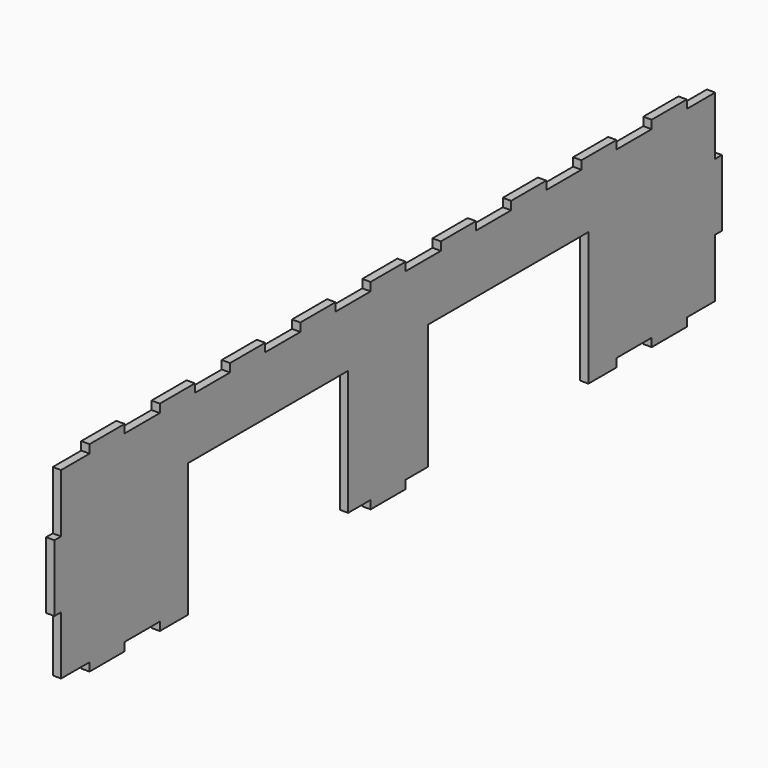
from build123d import *

# Parameters (mm, degrees)
F1_DEPTH = 3.175


with BuildPart() as f1:
    # F0 (on Right) → F1 (new body)
    with BuildSketch(Plane.YZ):
        Polygon((-155.575, 34.925), (-155.575, 12.7), (-158.75, 12.7), (-158.75, -12.7), (-155.575, -12.7), (-155.575, -34.925), (-142.039474, -34.925), (-142.039474, -38.1), (-125.328947, -38.1), (-125.328947, -34.925), (-108.618421, -34.925), (-108.618421, -38.1), (-95.25, -38.1), (-95.25, 12.7), (-19.05, 12.7), (-19.05, -34.925), (-8.355262, -34.925), (-8.355262, -38.1), (8.355264, -38.1), (8.355264, -34.925), (19.05, -34.925), (19.05, 12.7), (95.25, 12.7), (95.25, -38.1), (108.618422, -38.1), (108.618422, -34.925), (125.328949, -34.925), (125.328949, -38.1), (142.039475, -38.1), (142.039475, -34.925), (155.575, -34.925), (155.575, -12.7), (158.75, -12.7), (158.75, 12.7), (155.575, 12.7), (155.575, 34.925), (142.039475, 34.925), (142.039475, 38.1), (125.328949, 38.1), (125.328949, 34.925), (108.618422, 34.925), (108.618422, 38.1), (91.907896, 38.1), (91.907896, 34.925), (75.19737, 34.925), (75.19737, 38.1), (58.486843, 38.1), (58.486843, 34.925), (41.776317, 34.925), (41.776317, 38.1), (25.06579, 38.1), (25.06579, 34.925), (8.355264, 34.925), (8.355264, 38.1), (-8.355262, 38.1), (-8.355262, 34.925), (-25.065789, 34.925), (-25.065789, 38.1), (-41.776315, 38.1), (-41.776315, 34.925), (-58.486842, 34.925), (-58.486842, 38.1), (-75.197368, 38.1), (-75.197368, 34.925), (-91.907894, 34.925), (-91.907894, 38.1), (-108.618421, 38.1), (-108.618421, 34.925), (-125.328947, 34.925), (-125.328947, 38.1), (-142.039474, 38.1), (-142.039474, 34.925), align=None)
    extrude(amount=F1_DEPTH)


solid = f1.part
